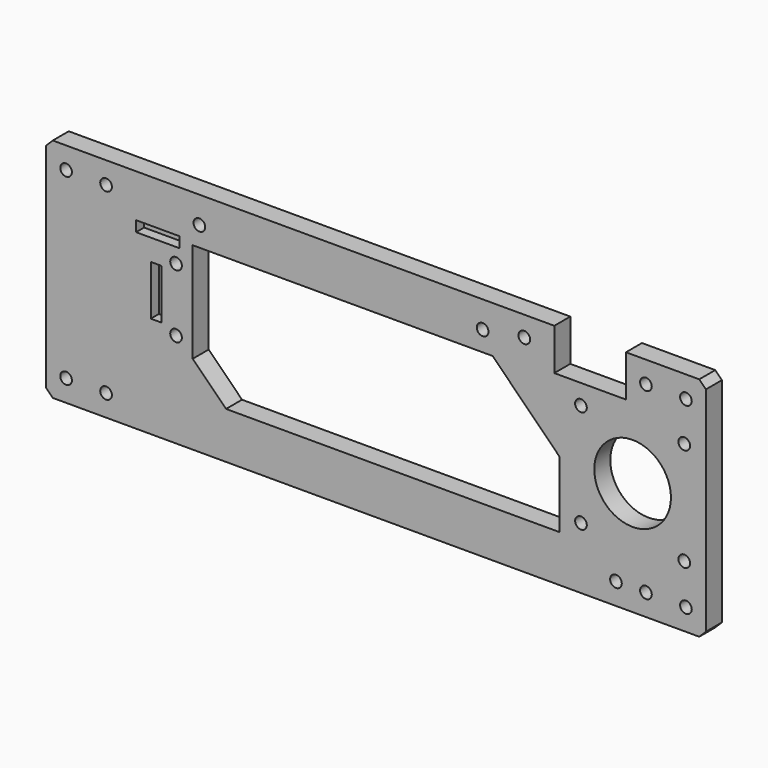
from build123d import *

# Parameters (mm, degrees)
F1_R     = 1.75
F1_W     = 3.175
F1_H     = 15
F1_W_2   = 13
F1_H_2   = 3.175
F1_R_2   = 11.5
F2_DEPTH = 6
F3_DEPTH = 3


with BuildPart() as f2:
    # F1 (on Front) → F2 (new body)
    with BuildSketch(Plane.XZ):
        Polygon((99, 32), (97, 34), (75, 34), (75, 21.5), (53.5, 21.5), (53.5, 34), (-97, 34), (-99, 32), (-99, -32), (-97, -34), (97, -34), (99, -32), align=None)
        with Locations((-93, -27.5)):
            Circle(F1_R, mode=Mode.SUBTRACT)
        with Locations((-81, -27.5)):
            Circle(F1_R, mode=Mode.SUBTRACT)
        with Locations((-60, -5.5)):
            Circle(F1_R, mode=Mode.SUBTRACT)
        with Locations((72, -27.5)):
            Circle(F1_R, mode=Mode.SUBTRACT)
        with Locations((81, -27.5)):
            Circle(F1_R, mode=Mode.SUBTRACT)
        with Locations((93, -27.5)):
            Circle(F1_R, mode=Mode.SUBTRACT)
        with Locations((61.5, -15.5)):
            Circle(F1_R, mode=Mode.SUBTRACT)
        with Locations((92.5, -15.5)):
            Circle(F1_R, mode=Mode.SUBTRACT)
        with Locations((-66, 4)):
            Rectangle(F1_W, F1_H, mode=Mode.SUBTRACT)
        with Locations((-60, 13.5)):
            Circle(F1_R, mode=Mode.SUBTRACT)
        with Locations((-65.5, 19.5)):
            Rectangle(F1_W_2, F1_H_2, mode=Mode.SUBTRACT)
        with Locations((-93, 27.5)):
            Circle(F1_R, mode=Mode.SUBTRACT)
        with Locations((-81, 27.5)):
            Circle(F1_R, mode=Mode.SUBTRACT)
        with Locations((-53, 26)):
            Circle(F1_R, mode=Mode.SUBTRACT)
        Polygon((-55, -10), (-55, 20), (35, 20), (55, 0), (55, -20), (-45, -20), align=None, mode=Mode.SUBTRACT)
        with Locations((77, 0)):
            Circle(F1_R_2, mode=Mode.SUBTRACT)
        with Locations((61.5, 15.5)):
            Circle(F1_R, mode=Mode.SUBTRACT)
        with Locations((92.5, 15.5)):
            Circle(F1_R, mode=Mode.SUBTRACT)
        with Locations((32, 26)):
            Circle(F1_R, mode=Mode.SUBTRACT)
        with Locations((44.5, 28)):
            Circle(F1_R, mode=Mode.SUBTRACT)
        with Locations((81, 27.5)):
            Circle(F1_R, mode=Mode.SUBTRACT)
        with Locations((93, 27.5)):
            Circle(F1_R, mode=Mode.SUBTRACT)
    extrude(amount=F2_DEPTH)

    # F1 (on Front) → F3 (join)
    with BuildSketch(Plane.XZ):
        with Locations((-66, 4)):
            Rectangle(F1_W, F1_H)
        with Locations((-65.5, 19.5)):
            Rectangle(F1_W_2, F1_H_2)
    extrude(amount=F3_DEPTH)


solid = f2.part
